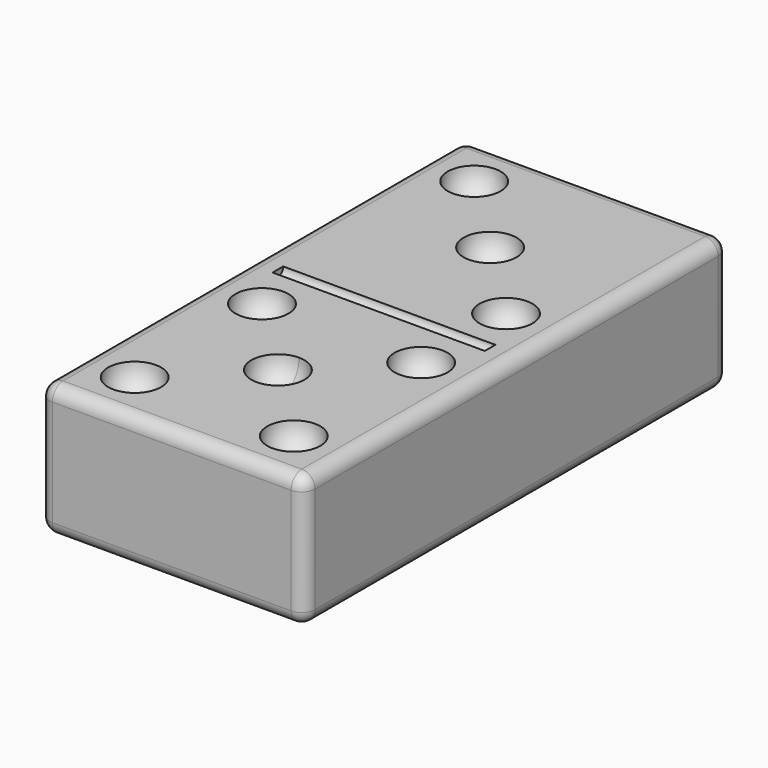
from build123d import *

# Parameters (mm, degrees)
CYLINDER_R               = 0.5
CYLINDER_DEPTH           = 16
ARRAY002_X_COUNT         = 3
ARRAY002_X_PITCH         = 8.485281
ARRAY001_X_COUNT         = 3
ARRAY001_X_PITCH         = 8.485281
ARRAY001_PLACEMENT_ANGLE = 90
ARRAY_X_COUNT            = 3
ARRAY_X_PITCH            = 8.485281
ARRAY_PLACEMENT_ANGLE    = 90
BOX_W                    = 20
BOX_H                    = 40
BOX_DEPTH                = 10
FILLET_R                 = 1


with BuildPart() as division:
    # Cylinder → Cylinder (new body)
    with BuildSketch(Plane(origin=(2, 20, 10), x_dir=(0, 0, -1), z_dir=(1, 0, 0))):
        Circle(CYLINDER_R)
    extrude(amount=CYLINDER_DEPTH)


with BuildPart() as array002:
    # Sphere002 → Sphere002 (revolve)
    with BuildSketch(Plane.XZ):
        with BuildLine():
            ThreePointArc((0, -2), (2, 0), (0, 2))
            Line((0, 2), (0, -2))
        make_face()
    revolve(axis=Axis((0, 0, 0), (0, 0, 1)))

    # Array002 X: Array002 ×3


with BuildPart() as array002_1:
    add(array002.part)
    with Locations(*[Vector(0.707107, 0.707107, 0) * (i * ARRAY002_X_PITCH) for i in range(1, ARRAY002_X_COUNT)]):
        add(array002.part)


with BuildPart() as cinco:
    # Sphere001 → Sphere001 (revolve)
    with BuildSketch(Plane.XZ):
        with BuildLine():
            ThreePointArc((0, -2), (2, 0), (0, 2))
            Line((0, 2), (0, -2))
        make_face()
    revolve(axis=Axis((0, 0, 0), (0, 0, 1)))

    # Array001 X: cinco ×3


with BuildPart() as cinco_1:
    add(cinco.part)
    with Locations(*[Vector(0.707107, 0.707107, 0) * (i * ARRAY001_X_PITCH) for i in range(1, ARRAY001_X_COUNT)]):
        add(cinco.part)


with BuildPart() as cinco_2:
    # Array001 placement: moved
    add(cinco_1.part.moved(Location((12, 0, 0))).rotate(Axis((12, 0, 0), (0, 0, 1)), ARRAY001_PLACEMENT_ANGLE))

    # Fusion: union Array002
    add(array002_1.part)


with BuildPart() as cinco_3:
    # Fusion placement: moved
    add(cinco_2.part.moved(Location((4, 4, 10))))


with BuildPart() as obj1:
    # Sphere → Sphere (revolve)
    with BuildSketch(Plane.XZ):
        with BuildLine():
            ThreePointArc((0, -2), (2, 0), (0, 2))
            Line((0, 2), (0, -2))
        make_face()
    revolve(axis=Axis((0, 0, 0), (0, 0, 1)))

    # Array X: obj1 ×3


with BuildPart() as obj1_1:
    add(obj1.part)
    with Locations(*[Vector(0.707107, 0.707107, 0) * (i * ARRAY_X_PITCH) for i in range(1, ARRAY_X_COUNT)]):
        add(obj1.part)


with BuildPart() as obj1_2:
    # Array placement: moved
    add(obj1_1.part.moved(Location((16, 24, 10))).rotate(Axis((16, 24, 10), (0, 0, 1)), ARRAY_PLACEMENT_ANGLE))

    # Fusion001: union cinco
    add(cinco_3.part)

    # Fusion002: union division
    add(division.part)


with BuildPart() as obj2:
    # Box → Box (new body)
    with BuildSketch(Plane.XY):
        with Locations((10, 20)):
            Rectangle(BOX_W, BOX_H)
    extrude(amount=BOX_DEPTH)

    # Fillet
    fillet_edges = [obj2.edges().sort_by_distance(p)[0] for p in [
        (0, 0, 5),
        (0, 20, 10),
        (0, 40, 5),
        (0, 20, 0),
        (20, 0, 5),
        (20, 20, 10),
        (20, 40, 5),
        (20, 20, 0),
        (10, 0, 0),
        (10, 0, 10),
        (10, 40, 0),
        (10, 40, 10),
    ]]
    fillet(fillet_edges, radius=FILLET_R)

    # Cut: cut obj1
    add(obj1_2.part, mode=Mode.SUBTRACT)


solid = obj2.part
